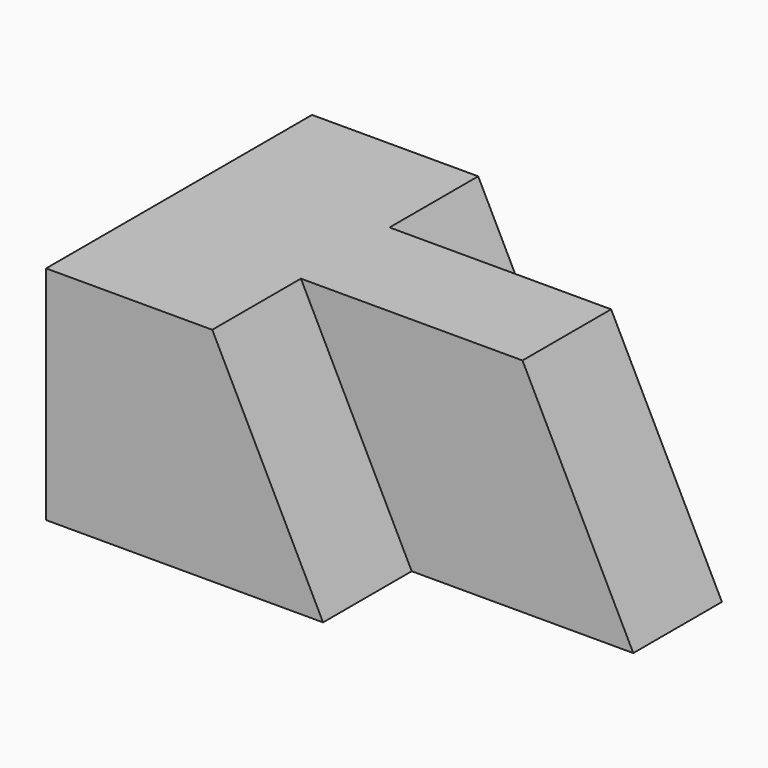
from build123d import *

# Parameters (mm, degrees)
F0_W      = 57.15
F0_H      = 25.4
F1_DEPTH  = 12.7
F2_W      = 31.75
F2_H      = 25.4
F3_DEPTH  = 12.7
F4_W      = 31.75
F4_H      = 25.4
F5_DEPTH  = 12.7
F7_DEPTH  = 12.7
F9_DEPTH  = 12.7
F11_DEPTH = 12.7


with BuildPart() as f1:
    # F0 (on Front) → F1 (new body)
    with BuildSketch(Plane.XZ):
        with Locations((-28.575, 12.7)):
            Rectangle(F0_W, F0_H)
    extrude(amount=F1_DEPTH)

    # F2 (on face) → F3 (join)
    with BuildSketch(Plane.XZ.offset(12.7)):
        with Locations((-41.275, 12.7)):
            Rectangle(F2_W, F2_H)
    extrude(amount=F3_DEPTH)

    # F4 (on face) → F5 (join)
    with BuildSketch(Plane(origin=(0, 0, 0), x_dir=(-1, 0, 0), z_dir=(0, 1, 0))):
        with Locations((41.275, 12.7)):
            Rectangle(F4_W, F4_H)
    extrude(amount=F5_DEPTH)

    # F6 (on face) → F7 (cut)
    with BuildSketch(Plane(origin=(0, 12.7, 0), x_dir=(-1, 0, 0), z_dir=(0, 1, 0))):
        Polygon((25.4, 25.4), (25.4, 0), (38.1, 25.4), align=None)
    extrude(amount=-F7_DEPTH, mode=Mode.SUBTRACT)

    # F8 (on face) → F9 (cut)
    with BuildSketch(Plane(origin=(0, 0, 0), x_dir=(-1, 0, 0), z_dir=(0, 1, 0))):
        Polygon((0, 25.4), (0, 0), (12.7, 25.4), align=None)
    extrude(amount=-F9_DEPTH, mode=Mode.SUBTRACT)

    # F10 (on face) → F11 (cut)
    with BuildSketch(Plane.XZ.offset(25.4)):
        Polygon((-38.1, 25.4), (-25.4, 0), (-25.4, 25.4), align=None)
    extrude(amount=-F11_DEPTH, mode=Mode.SUBTRACT)


solid = f1.part
